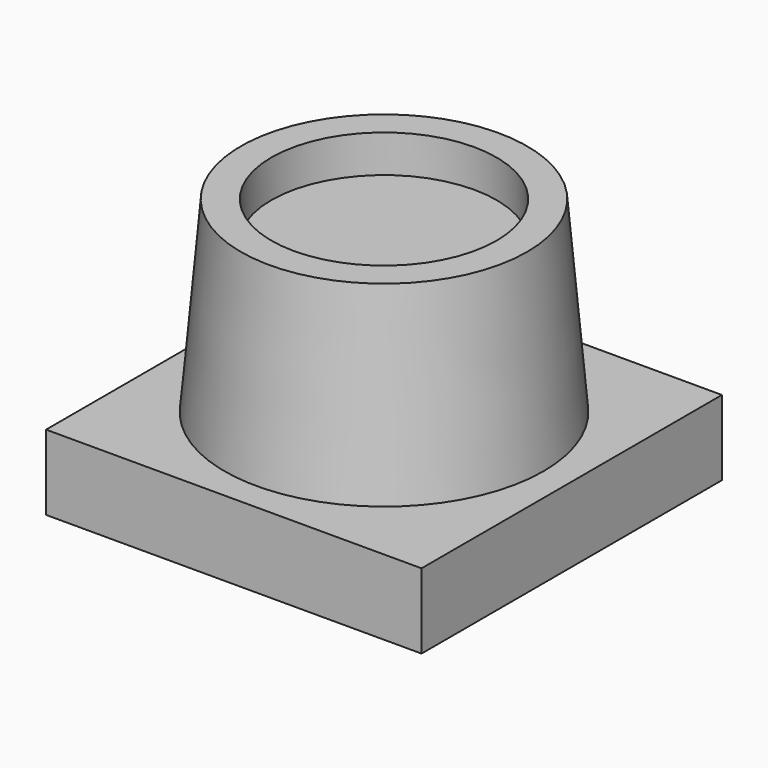
from build123d import *

# Parameters (mm, degrees)
F0_W     = 100
F0_H     = 100
F1_DEPTH = 20
F2_R     = 42.5
F3_DEPTH = 50
F3_TAPER = 5
F4_R     = 30
F5_DEPTH = 10


with BuildPart() as f1:
    # F0 (on Top) → F1 (new body)
    with BuildSketch(Plane.XY):
        Rectangle(F0_W, F0_H)
    extrude(amount=F1_DEPTH)

    # F2 (on face) → F3 (join)
    with BuildSketch(Plane.XY.offset(20)):
        Circle(F2_R)
    extrude(amount=F3_DEPTH, taper=F3_TAPER)

    # F4 (on face) → F5 (cut)
    with BuildSketch(Plane.XY.offset(70)):
        Circle(F4_R)
    extrude(amount=-F5_DEPTH, mode=Mode.SUBTRACT)


solid = f1.part
